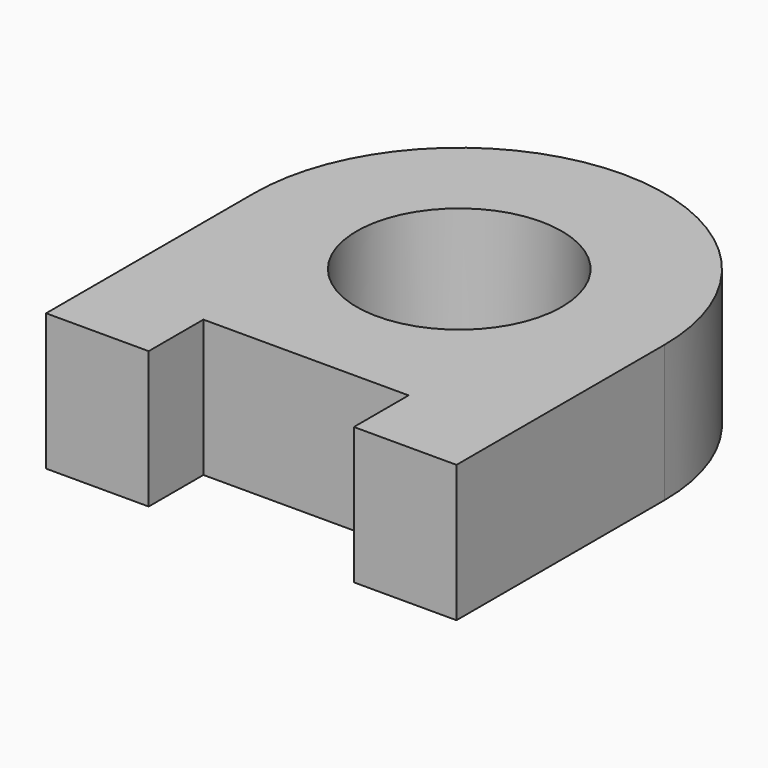
from build123d import *

# Parameters (mm, degrees)
F0_R     = 381
F1_DEPTH = 508


with BuildPart() as f1:
    # F0 (on Top) → F1 (new body)
    with BuildSketch(Plane.XY):
        with BuildLine():
            Line((-762, 0), (-381, 0))
            Line((-381, 0), (-381, 254))
            Line((-381, 254), (381, 254))
            Line((381, 254), (381, 0))
            Line((381, 0), (762, 0))
            Line((762, 0), (762, 965.2))
            ThreePointArc((762, 965.2), (0, 1727.2), (-762, 965.2))
            Line((-762, 965.2), (-762, 0))
        make_face()
        with Locations((0, 965.2)):
            Circle(F0_R, mode=Mode.SUBTRACT)
    extrude(amount=F1_DEPTH)


solid = f1.part
